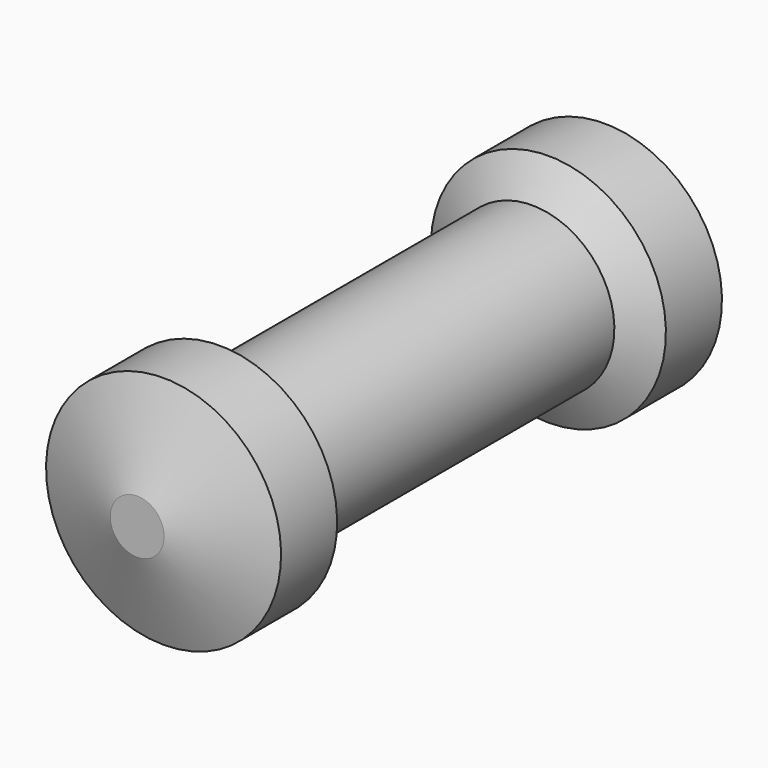
from build123d import *


with BuildPart() as part:
    # Sketch → Revolution (revolve)
    with BuildSketch(Plane(origin=(0, 0, 0), x_dir=(0, -1, 0), z_dir=(1, 0, 0))):
        Polygon((0, 0.84), (-1.89, 0.84), (-2.097846, 1.2), (-2.813328, 1.2), (-3.15, 0.275), (-3.15, 0), (0, 0), align=None)
    revolution = revolve(axis=Axis((0, 0, 0), (0, 1, 0)))

    # Mirrored: Revolution across Sketch V_Axis
    add(revolution.mirror(Plane.XZ))


solid = part.part
